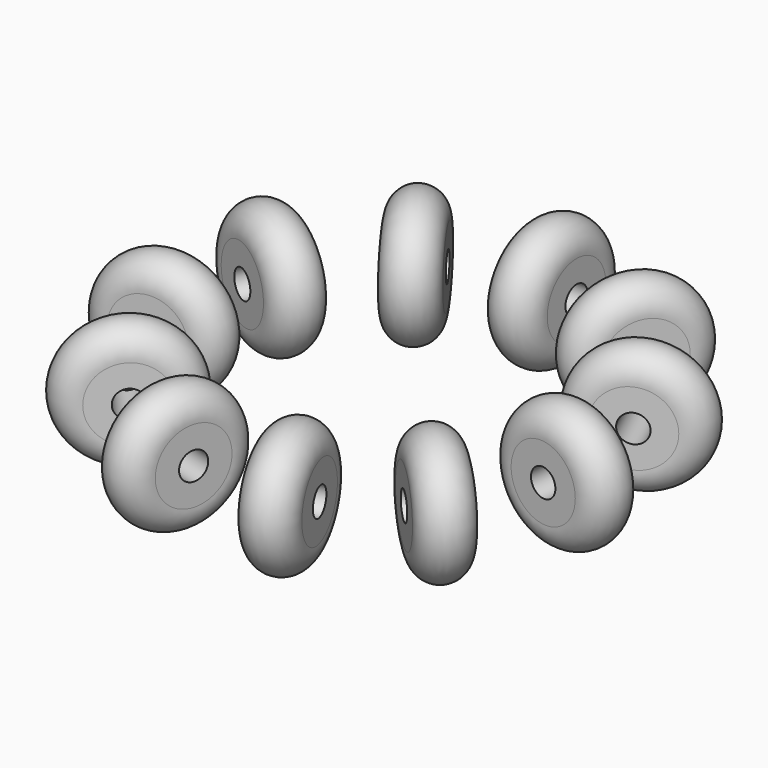
from build123d import *

# Parameters (mm, degrees)
SKETCH006_R     = 1.3
POCKET001_DEPTH = 4.72422
ARRAY001_COUNT  = 11


with BuildPart() as part:
    # Sketch002 → Revolution (revolve)
    with BuildSketch(Plane.XY):
        with BuildLine():
            ThreePointArc((2.356728, 22.418752), (0, 25), (-2.356728, 22.418752))
            Line((-2.356728, 22.418752), (-2.356728, 19))
            Line((2.356728, 19), (-2.356728, 19))
            Line((2.356728, 22.418752), (2.356728, 19))
        make_face()
    revolve(axis=Axis((2.356728, 19, 0), (-1, 0, 0)))

    # Sketch006 (on Face3 of Revolution) → Pocket001 (cut, through all)
    with BuildSketch(Plane.YZ.offset(2.356728)):
        with Locations((19, 0)):
            Circle(SKETCH006_R)
    extrude(amount=-POCKET001_DEPTH, mode=Mode.SUBTRACT)

    # Array001: part ×11 about axis
    array001_axis = Axis((0, 0, 0), (0, 0, 1))


with BuildPart() as part_1:
    add(part.part)
    for i in range(1, ARRAY001_COUNT):
        add(part.part.rotate(array001_axis, i * 360 / ARRAY001_COUNT))


solid = part_1.part
